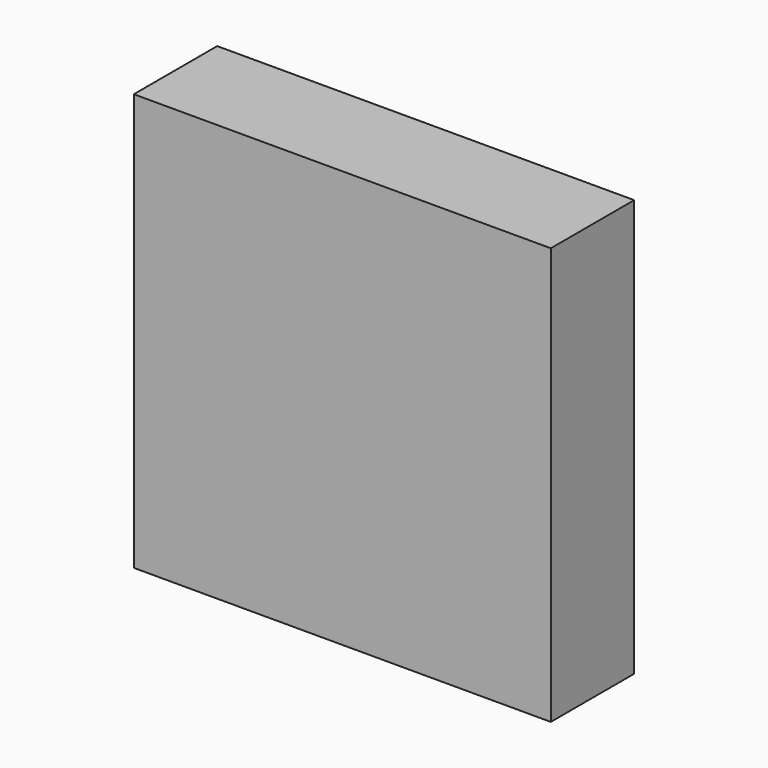
from build123d import *

# Parameters (mm, degrees)
F0_W     = 40
F0_H     = 40
F1_DEPTH = 10
F2_T     = -2.54
F3_W     = 3.686494
F3_H     = 1.30985
F4_DEPTH = 4.6228


with BuildPart() as f1:
    # F0 (on Front) → F1 (new body)
    with BuildSketch(Plane.XZ):
        with Locations((20, 20)):
            Rectangle(F0_W, F0_H)
    extrude(amount=-F1_DEPTH)

    # F2
    f2_openings = [f1.faces().sort_by_distance(p)[0] for p in [
        (20, 5, 0),
    ]]
    offset(amount=F2_T, openings=f2_openings)

    # F3 (on face) → F4 (join)
    with BuildSketch(Plane(origin=(0, 0, 0), x_dir=(1, 0, 0), z_dir=(0, 0, -1))):
        with Locations((6.564244, -9.345075)):
            Rectangle(F3_W, F3_H)
    extrude(amount=F4_DEPTH)


solid = f1.part
